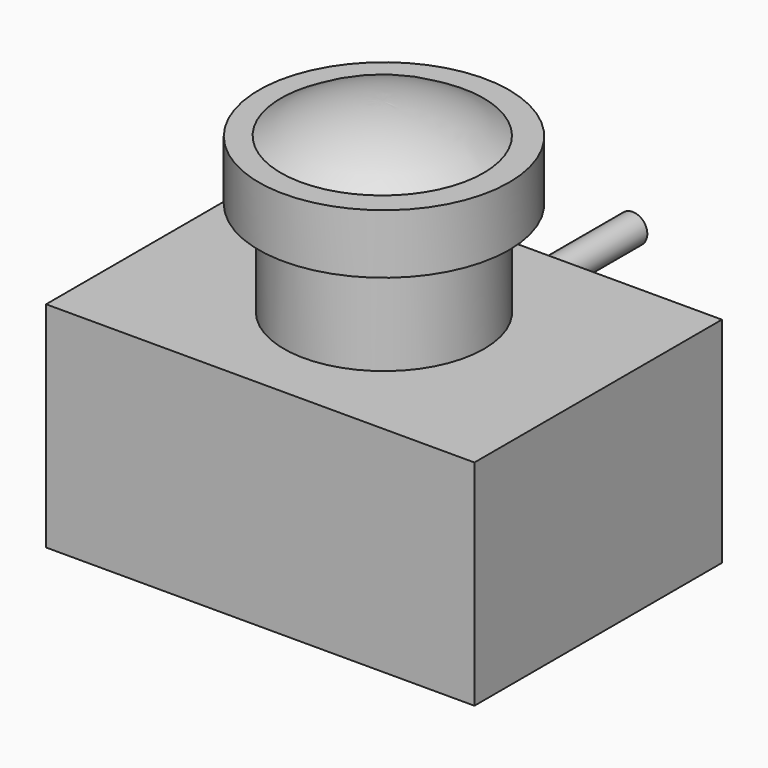
from build123d import *

# Parameters (mm, degrees)
F0_W     = 18
F0_H     = 13
F1_DEPTH = 9
F2_R     = 4.207059
F3_DEPTH = 4
F4_R     = 5.259431
F5_DEPTH = 2.5
F7_DEPTH = 2
F8_R     = 0.61362
F9_DEPTH = 12


with BuildPart() as f1:
    # F0 (on Top) → F1 (new body)
    with BuildSketch(Plane.XY):
        Rectangle(F0_W, F0_H)
    extrude(amount=F1_DEPTH)

    # F2 (on face) → F3 (join)
    with BuildSketch(Plane.XY.offset(9)):
        Circle(F2_R)
    extrude(amount=F3_DEPTH)

    # F4 (on face) → F5 (join)
    with BuildSketch(Plane.XY.offset(13)):
        Circle(F4_R)
    extrude(amount=F5_DEPTH)

    # F6 (on face) → F7 (join)
    with BuildSketch(Plane(origin=(0, 0, 0), x_dir=(1, 0, 0), z_dir=(0, 0, -1))):
        Polygon((-6.154838, -4.973606), (-7.709091, -4.942521), (-7.709091, -9.729618), (-6.154838, -9.729618), align=None)
    extrude(amount=-F7_DEPTH)

    # F8 (on face) → F9 (join)
    with BuildSketch(Plane(origin=(0, 9.729618, 0), x_dir=(-1, 0, 0), z_dir=(0, 1, 0))):
        with Locations((6.931964, 1)):
            Circle(F8_R)
    extrude(amount=F9_DEPTH)

    # F10 (on Front) → F11 (revolve)
    with BuildSketch(Plane.XZ):
        with BuildLine():
            Line((4.402904, 14.748257), (4.402904, 15.349783))
            ThreePointArc((4.402904, 15.349783), (2.276801, 16.411373), (-0.072503, 16.769225))
            Line((-0.072503, 16.769225), (-0.072503, 14.748257))
            Line((-0.072503, 14.748257), (4.402904, 14.748257))
        make_face()
    revolve(axis=Axis((-0.072503, 0, 15.758741), (0, 0, -1)))


solid = f1.part
